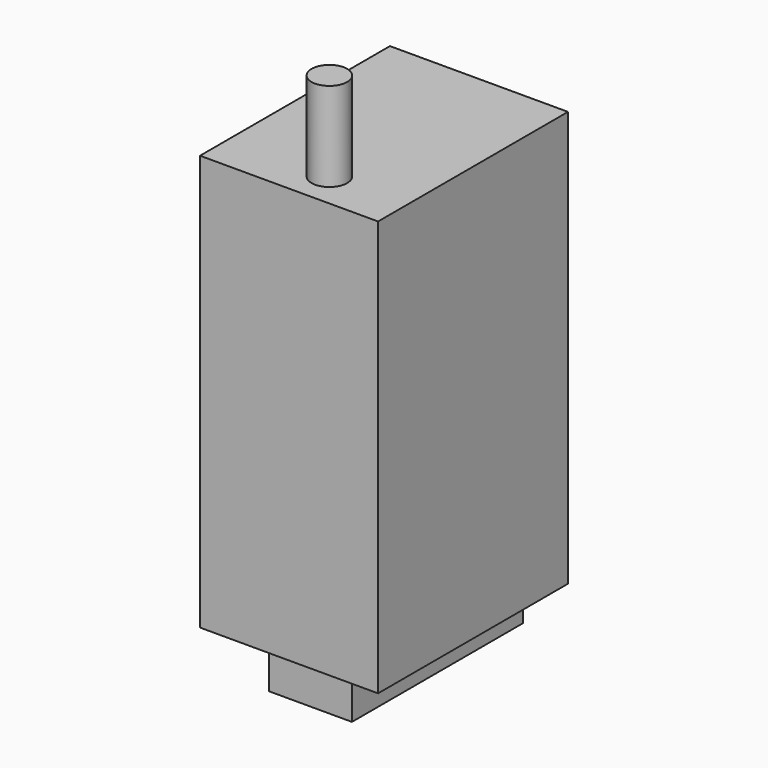
from build123d import *

# Parameters (mm, degrees)
F0_W     = 30
F0_H     = 40
F0_W_2   = 14
F0_H_2   = 36
F1_DEPTH = 70
F2_DEPTH = 7
F3_R     = 3
F4_DEPTH = 15
F6_DEPTH = 5


with BuildPart() as f1:
    # F0 (on Top) → F1 (new body)
    with BuildSketch(Plane.XY):
        Rectangle(F0_W, F0_H)
        with Locations((2, 0)):
            Rectangle(F0_W_2, F0_H_2, mode=Mode.SUBTRACT)
        with Locations((2, 0)):
            Rectangle(F0_W_2, F0_H_2)
    extrude(amount=F1_DEPTH)

    # F0 (on Top) → F2 (join)
    with BuildSketch(Plane.XY):
        with Locations((2, 0)):
            Rectangle(F0_W_2, F0_H_2)
    extrude(amount=-F2_DEPTH)

    # F3 (on face) → F4 (join)
    with BuildSketch(Plane.XY.offset(70)):
        with Locations((2, -14)):
            Circle(F3_R)
    extrude(amount=F4_DEPTH)

    # F5 (on face) → F6 (cut)
    with BuildSketch(Plane(origin=(-15, 0, 0), x_dir=(0, -1, 0), z_dir=(-1, 0, 0))):
        with BuildLine():
            ThreePointArc((9, 15), (10, 14), (11, 15))
            ThreePointArc((11, 15), (10, 16), (9, 15))
        make_face()
        with BuildLine():
            ThreePointArc((9, 15), (10, 16), (11, 15))
            Line((11, 15), (11, 31))
            ThreePointArc((11, 31), (10, 30), (9, 31))
            Line((9, 31), (9, 15))
        make_face()
        with BuildLine():
            ThreePointArc((9, 31), (10, 30), (11, 31))
            ThreePointArc((11, 31), (10, 32), (9, 31))
        make_face()
        with BuildLine():
            ThreePointArc((9, 55), (10, 54), (11, 55))
            ThreePointArc((11, 55), (10, 56), (9, 55))
        make_face()
        with BuildLine():
            ThreePointArc((4, 55), (5, 54), (6, 55))
            ThreePointArc((6, 55), (5, 56), (4, 55))
        make_face()
        with BuildLine():
            ThreePointArc((-1, 55), (0, 54), (1, 55))
            ThreePointArc((1, 55), (0, 56), (-1, 55))
        make_face()
        with BuildLine():
            ThreePointArc((-6, 55), (-5, 54), (-4, 55))
            ThreePointArc((-4, 55), (-5, 56), (-6, 55))
        make_face()
        with BuildLine():
            ThreePointArc((-11, 55), (-10, 54), (-9, 55))
            ThreePointArc((-9, 55), (-10, 56), (-11, 55))
        make_face()
        with BuildLine():
            ThreePointArc((9, 39), (10, 40), (11, 39))
            Line((11, 39), (11, 55))
            ThreePointArc((11, 55), (10, 54), (9, 55))
            Line((9, 55), (9, 39))
        make_face()
        with BuildLine():
            ThreePointArc((4, 39), (5, 40), (6, 39))
            Line((6, 39), (6, 55))
            ThreePointArc((6, 55), (5, 54), (4, 55))
            Line((4, 55), (4, 39))
        make_face()
        with BuildLine():
            ThreePointArc((-1, 39), (0, 40), (1, 39))
            Line((1, 39), (1, 55))
            ThreePointArc((1, 55), (0, 54), (-1, 55))
            Line((-1, 55), (-1, 39))
        make_face()
        with BuildLine():
            ThreePointArc((-6, 39), (-5, 40), (-4, 39))
            Line((-4, 39), (-4, 55))
            ThreePointArc((-4, 55), (-5, 54), (-6, 55))
            Line((-6, 55), (-6, 39))
        make_face()
        with BuildLine():
            ThreePointArc((-11, 39), (-10, 40), (-9, 39))
            Line((-9, 39), (-9, 55))
            ThreePointArc((-9, 55), (-10, 54), (-11, 55))
            Line((-11, 55), (-11, 39))
        make_face()
        with BuildLine():
            ThreePointArc((9, 39), (10, 38), (11, 39))
            ThreePointArc((11, 39), (10, 40), (9, 39))
        make_face()
        with BuildLine():
            ThreePointArc((4, 39), (5, 38), (6, 39))
            ThreePointArc((6, 39), (5, 40), (4, 39))
        make_face()
        with BuildLine():
            ThreePointArc((-1, 39), (0, 38), (1, 39))
            ThreePointArc((1, 39), (0, 40), (-1, 39))
        make_face()
        with BuildLine():
            ThreePointArc((-6, 39), (-5, 38), (-4, 39))
            ThreePointArc((-4, 39), (-5, 40), (-6, 39))
        make_face()
        with BuildLine():
            ThreePointArc((-11, 39), (-10, 38), (-9, 39))
            ThreePointArc((-9, 39), (-10, 40), (-11, 39))
        make_face()
        with BuildLine():
            ThreePointArc((4, 31), (5, 30), (6, 31))
            ThreePointArc((6, 31), (5, 32), (4, 31))
        make_face()
        with BuildLine():
            ThreePointArc((-1, 31), (0, 30), (1, 31))
            ThreePointArc((1, 31), (0, 32), (-1, 31))
        make_face()
        with BuildLine():
            ThreePointArc((-6, 31), (-5, 30), (-4, 31))
            ThreePointArc((-4, 31), (-5, 32), (-6, 31))
        make_face()
        with BuildLine():
            ThreePointArc((-11, 31), (-10, 30), (-9, 31))
            ThreePointArc((-9, 31), (-10, 32), (-11, 31))
        make_face()
        with BuildLine():
            ThreePointArc((4, 15), (5, 16), (6, 15))
            Line((6, 15), (6, 31))
            ThreePointArc((6, 31), (5, 30), (4, 31))
            Line((4, 31), (4, 15))
        make_face()
        with BuildLine():
            ThreePointArc((-1, 15), (0, 16), (1, 15))
            Line((1, 15), (1, 31))
            ThreePointArc((1, 31), (0, 30), (-1, 31))
            Line((-1, 31), (-1, 15))
        make_face()
        with BuildLine():
            ThreePointArc((-6, 15), (-5, 16), (-4, 15))
            Line((-4, 15), (-4, 31))
            ThreePointArc((-4, 31), (-5, 30), (-6, 31))
            Line((-6, 31), (-6, 15))
        make_face()
        with BuildLine():
            ThreePointArc((-11, 15), (-10, 16), (-9, 15))
            Line((-9, 15), (-9, 31))
            ThreePointArc((-9, 31), (-10, 30), (-11, 31))
            Line((-11, 31), (-11, 15))
        make_face()
        with BuildLine():
            ThreePointArc((4, 15), (5, 14), (6, 15))
            ThreePointArc((6, 15), (5, 16), (4, 15))
        make_face()
        with BuildLine():
            ThreePointArc((-1, 15), (0, 14), (1, 15))
            ThreePointArc((1, 15), (0, 16), (-1, 15))
        make_face()
        with BuildLine():
            ThreePointArc((-6, 15), (-5, 14), (-4, 15))
            ThreePointArc((-4, 15), (-5, 16), (-6, 15))
        make_face()
        with BuildLine():
            ThreePointArc((-11, 15), (-10, 14), (-9, 15))
            ThreePointArc((-9, 15), (-10, 16), (-11, 15))
        make_face()
    extrude(amount=-F6_DEPTH, mode=Mode.SUBTRACT)


solid = f1.part
